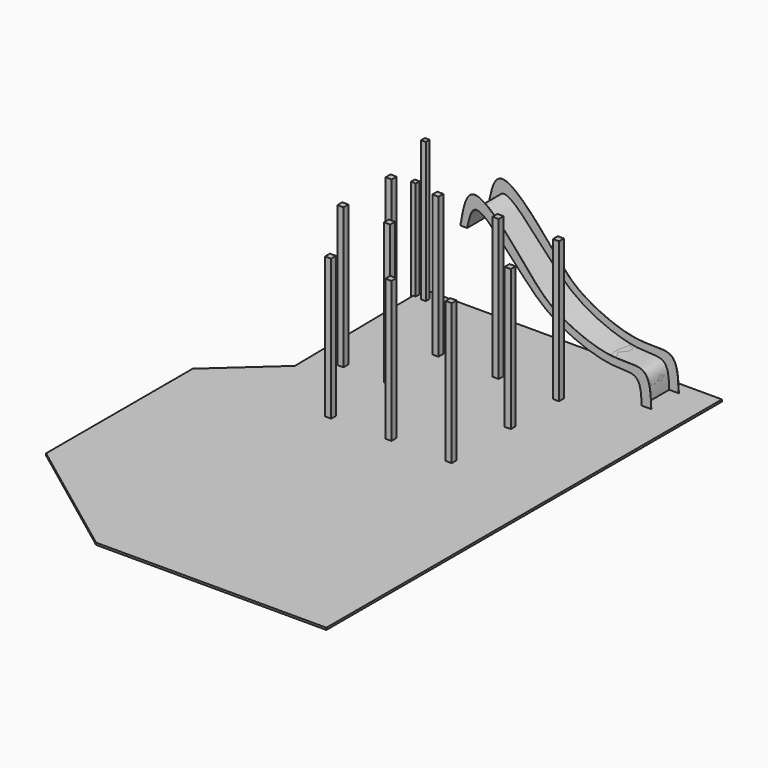
from build123d import *

# Parameters (mm, degrees)
F0_W      = 70
F0_H      = 70
F1_DEPTH  = 2100
F4_W      = 70
F4_H      = 70
F5_DEPTH  = 1500
F7_DEPTH  = 30
F9_DEPTH  = 510
F10_T     = -2.5
F11_W     = 90
F11_H     = 90
F12_DEPTH = 2110
F11_H_2   = 89.7786617279
F13_W     = 800
F13_H     = 90
F14_DEPTH = 90
F13_W_2   = 600


with BuildPart() as f1:
    # F0 (on Top) → F1 (new body)
    with BuildSketch(Plane.XY):
        with Locations((135, 6.3707870306)):
            Rectangle(F0_W, F0_H)
    extrude(amount=F1_DEPTH)


with BuildPart() as f2_1:
    # F2: copy of F1
    add(f1.part.moved(Location((100, 0, 0))))


with BuildPart() as f5:
    # F4 (on Top) → F5 (new body)
    with BuildSketch(Plane.XY):
        with Locations((-29.0979322419, 24.4512314349)):
            Rectangle(F4_W, F4_H)
    extrude(amount=F5_DEPTH)


with BuildPart() as f7:
    # F6 (on Top) → F7 (new body)
    with BuildSketch(Plane.XY):
        Polygon((4366.9291302562, 189.5923018456), (-33.0708697438, 189.5923018456), (0, -2231.9755554199), (-876.3754367828, -3023.8611698151), (-876.3754367828, -5729.4697761536), (966.9291302562, -7110.4076981545), (4366.9291302562, -7110.4076981545), align=None)
    extrude(amount=F7_DEPTH)


with BuildPart() as f9:
    # F8 (on Front) → F9 (new body)
    with BuildSketch(Plane.XZ):
        with BuildLine():
            add(Edge.make_bspline(
                [(1064.1742944717, 1500), (1103.0272732562, 1731.3709239345), (1198.4606863153, 2299.5973047145), (2121.8312648709, 1162.7697636936), (2432.6979762408, 827.3380607466), (3261.9679566722, 452.4331298989), (3867.6699275111, 596.612077027), (3876.4933471437, 198.7043816063), (3884.1742944717, 0)],
                knots=[0, 0, 0, 0, 0.1478559671, 0.3632126086, 0.5205373093, 0.7117139152, 0.8558369243, 1, 1, 1, 1], degree=3))
            Line((1064.1742944717, 1500), (1164.1742944717, 1500))
            add(Edge.make_bspline(
                [(1164.1742944717, 1500), (1180.5928877439, 1576.1309967075), (1188.1570717204, 1610.4114290427), (1274.5888929342, 1900.7431002363), (1699.2740056011, 1464.3292522152), (1986.6335237527, 1140.8843444999), (2430.7843811372, 677.6085210474), (3264.1869395175, 363.4854102524), (3733.7724430778, 450.7240058426), (3739.4272673098, 127.1169668674), (3740.8874034882, 0)],
                knots=[0, 0, 0, 0, 0.0731755424, 0.1532924437, 0.2868122914, 0.4231873793, 0.578472593, 0.7632100702, 0.8820958175, 1, 1, 1, 1], degree=3))
            Line((3740.8874034882, 0), (3884.1742944717, 0))
        make_face()
    extrude(amount=F9_DEPTH)

    # F10
    f10_openings = [f9.faces().sort_by_distance(p)[0] for p in [
        (2432.731019, -255, 876.607054),
    ]]
    offset(amount=F10_T, openings=f10_openings, kind=Kind.INTERSECTION)


with BuildPart() as f12:
    # F11 (on Top) → F12 (new body)
    with BuildSketch(Plane.XY):
        with Locations((414.8735618591, -976.1542367935)):
            Rectangle(F11_W, F11_H)
    extrude(amount=F12_DEPTH)


with BuildPart() as f12b:
    # F11 (on Top) → F12, piece 2 (new body)
    with BuildSketch(Plane.XY):
        with Locations((414.8735618591, -1866.0435676575)):
            Rectangle(F11_W, F11_H_2)
    extrude(amount=F12_DEPTH)


with BuildPart() as f12c:
    # F11 (on Top) → F12, piece 3 (new body)
    with BuildSketch(Plane.XY):
        with Locations((1104.8735618591, -976.1542367935)):
            Rectangle(F11_W, F11_H)
    extrude(amount=F12_DEPTH)


with BuildPart() as f12d:
    # F11 (on Top) → F12, piece 4 (new body)
    with BuildSketch(Plane.XY):
        with Locations((1104.8735618591, -1866.0435676575)):
            Rectangle(F11_W, F11_H_2)
    extrude(amount=F12_DEPTH)


with BuildPart() as f12e:
    # F11 (on Top) → F12, piece 5 (new body)
    with BuildSketch(Plane.XY):
        with Locations((1104.8735618591, -2955.9328985214)):
            Rectangle(F11_W, F11_H)
    extrude(amount=F12_DEPTH)


with BuildPart() as f12f:
    # F11 (on Top) → F12, piece 6 (new body)
    with BuildSketch(Plane.XY):
        with Locations((1994.8735618591, -2955.9328985214)):
            Rectangle(F11_W, F11_H)
    extrude(amount=F12_DEPTH)


with BuildPart() as f12g:
    # F11 (on Top) → F12, piece 7 (new body)
    with BuildSketch(Plane.XY):
        with Locations((1994.8735618591, -976.1542367935)):
            Rectangle(F11_W, F11_H)
    extrude(amount=F12_DEPTH)


with BuildPart() as f12h:
    # F11 (on Top) → F12, piece 8 (new body)
    with BuildSketch(Plane.XY):
        with Locations((2884.8735618591, -976.1542367935)):
            Rectangle(F11_W, F11_H)
    extrude(amount=F12_DEPTH)


with BuildPart() as f12i:
    # F11 (on Top) → F12, piece 9 (new body)
    with BuildSketch(Plane.XY):
        with Locations((2884.8735618591, -2955.9328985214)):
            Rectangle(F11_W, F11_H)
    extrude(amount=F12_DEPTH)


with BuildPart() as f12j:
    # F11 (on Top) → F12, piece 10 (new body)
    with BuildSketch(Plane.XY):
        with Locations((2884.8735618591, -1866.0435676575)):
            Rectangle(F11_W, F11_H_2)
    extrude(amount=F12_DEPTH)


with BuildPart() as f14:
    # F13 (on Front) → F14 (new body)
    with BuildSketch(Plane.XZ):
        with Locations((743.1487083435, -342.9315257072)):
            Rectangle(F13_W, F13_H)
    extrude(amount=F14_DEPTH)


with BuildPart() as f14b:
    # F13 (on Front) → F14, piece 2 (new body)
    with BuildSketch(Plane.XZ):
        with Locations((643.1487083435, -589.5228552818)):
            Rectangle(F13_W_2, F13_H)
    extrude(amount=F14_DEPTH)


solid = Compound([f1.part, f5.part, f7.part, f9.part, f12.part, f12b.part, f12c.part, f12d.part, f12e.part, f12f.part, f12g.part, f12h.part, f12i.part, f12j.part, f14.part, f14b.part])
